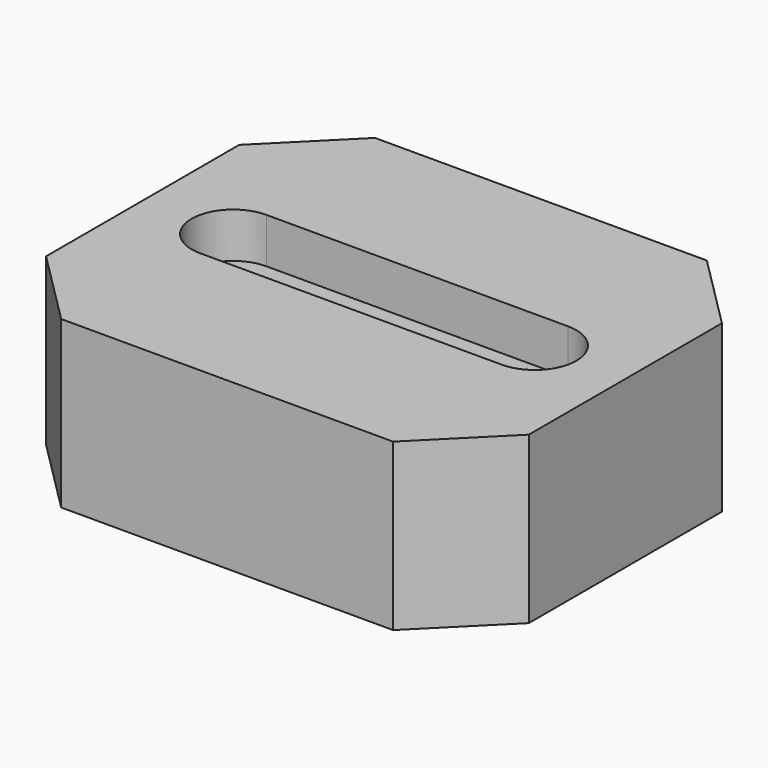
from build123d import *

# Parameters (mm, degrees)
SKETCH_W        = 32
SKETCH_H        = 26
PAD_DEPTH       = 11
POCKET_DEPTH    = 15
POCKET001_DEPTH = 3
CHAMFER_SIZE    = 5


with BuildPart() as part:
    # Sketch → Pad (new body)
    with BuildSketch(Plane.XY):
        Rectangle(SKETCH_W, SKETCH_H)
    extrude(amount=PAD_DEPTH)

    # Sketch001 (on Face6 of Pad) → Pocket (cut)
    with BuildSketch(Plane.XY.offset(11)):
        with BuildLine():
            ThreePointArc((-10, 1.5), (-11.5, 0), (-10, -1.5))
            Line((-10, -1.5), (10, -1.5))
            ThreePointArc((10, -1.5), (11.5, 0), (10, 1.5))
            Line((10, 1.5), (-10, 1.5))
        make_face()
    extrude(amount=-POCKET_DEPTH, mode=Mode.SUBTRACT)

    # Sketch002 (on Face5 of Pocket) → Pocket001 (cut)
    with BuildSketch(Plane.XY.offset(11)):
        with BuildLine():
            ThreePointArc((-10, 2.75), (-12.75, 0), (-10, -2.75))
            Line((-10, -2.75), (10, -2.75))
            ThreePointArc((10, -2.75), (12.75, 0), (10, 2.75))
            Line((10, 2.75), (-10, 2.75))
        make_face()
    extrude(amount=-POCKET001_DEPTH, mode=Mode.SUBTRACT)

    # Chamfer
    chamfer_edges = [part.edges().sort_by_distance(p)[0] for p in [
        (-16, -13, 5.5),
        (16, -13, 5.5),
        (16, 13, 5.5),
        (-16, 13, 5.5),
    ]]
    chamfer(chamfer_edges, length=CHAMFER_SIZE)


solid = part.part
